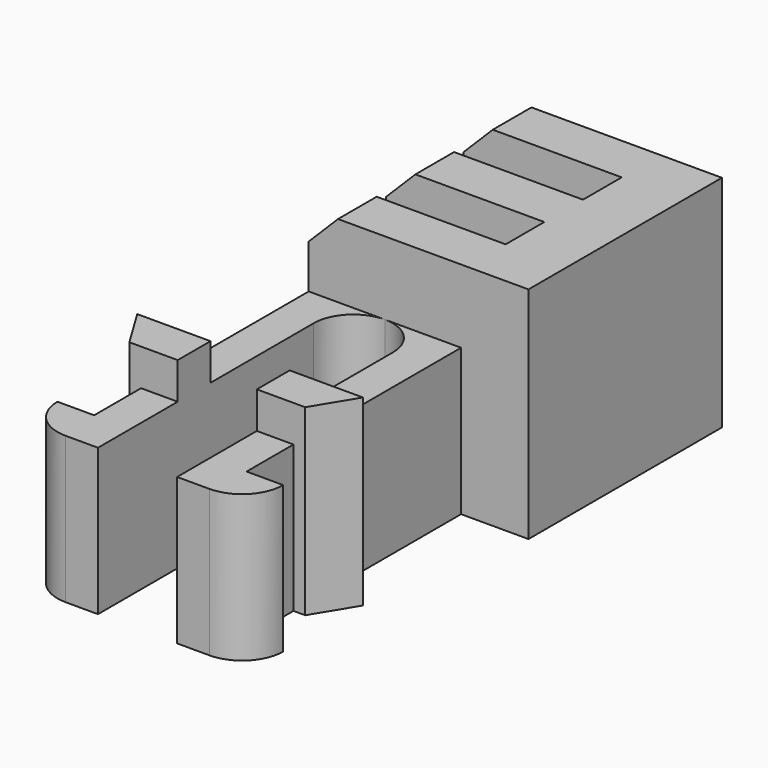
from build123d import *

# Parameters (mm, degrees)
PAD017_DEPTH           = 5
PAD020_DEPTH           = 6.25
SKETCH109_W            = 7.5
SKETCH109_H            = 1.65
PAD078_DEPTH           = 7.5
SKETCH107_W            = 2.1
SKETCH107_H            = 1.65
PAD079_DEPTH           = 7.5
SKETCH106_W            = 7.5
SKETCH106_H            = 1.65
PAD080_DEPTH           = 4.6
SKETCH108_W            = 7.5
SKETCH108_H            = 1.65
PAD081_DEPTH           = 7.5
LINEARPATTERN025_COUNT = 2
LINEARPATTERN025_PITCH = 3.3
CHAMFER015_SIZE        = 1


with BuildPart() as obj1:
    # Sketch034 → Pad017 (new body)
    with BuildSketch(Plane.XY):
        with BuildLine():
            Line((-1.35, -1.8), (-1.35, 6))
            ThreePointArc((0, 7.35), (-0.954594, 6.954594), (-1.35, 6))
            Line((0, 9), (0, 7.35))
            Line((-2.6, 9), (0, 9))
            Line((-2.6, -1.8), (-2.6, 9))
            Line((-3.85, -1.8), (-2.6, -1.8))
            ThreePointArc((-3.85, -1.8), (-3.439949, -2.789949), (-2.45, -3.2))
            Line((-1.35, -3.2), (-2.45, -3.2))
            Line((-1.35, -1.8), (-1.35, -3.2))
        make_face()
    extrude(amount=PAD017_DEPTH)

    # Sketch037 → Pad020 (join)
    with BuildSketch(Plane.XY):
        Polygon((-1.35, 0.2), (-1.35, 1.6), (-2.6, 1.6), (-3.85, 1.6), (-3, 0.2), (-2.6, 0.2), align=None)
    extrude(amount=PAD020_DEPTH)


with BuildPart() as obj2:
    # Mirror001: instance of _obj1
    add(obj1.part.mirror(Plane(origin=(0, 0, 0), x_dir=(0, 1, 0), z_dir=(-1, 0, 0))))


with BuildPart() as body041:
    # Fusion001 base: copy of _obj1
    add(obj1.part)

    # Fusion001: union _obj2)
    add(obj2.part)

    # Sketch109 → Pad078 (new body)
    with BuildSketch(Plane.XY):
        with Locations((1.15, 8.175)):
            Rectangle(SKETCH109_W, SKETCH109_H)
    extrude(amount=PAD078_DEPTH)

    # Sketch107 → Pad079 (join)
    with BuildSketch(Plane.XY):
        with Locations((3.85, 9.825)):
            Rectangle(SKETCH107_W, SKETCH107_H)
    pad079 = extrude(amount=PAD079_DEPTH)

    # Sketch106 → Pad080 (join)
    with BuildSketch(Plane.XY):
        with Locations((1.15, 9.825)):
            Rectangle(SKETCH106_W, SKETCH106_H)
    pad080 = extrude(amount=PAD080_DEPTH)

    # Sketch108 → Pad081 (join)
    with BuildSketch(Plane.XY):
        with Locations((1.15, 11.475)):
            Rectangle(SKETCH108_W, SKETCH108_H)
    pad081 = extrude(amount=PAD081_DEPTH)

    # LinearPattern025: Pad081, Pad080, Pad079 ×2
    with Locations(*[(0, i * LINEARPATTERN025_PITCH, 0) for i in range(1, LINEARPATTERN025_COUNT)]):
        add(pad081)
        add(pad080)
        add(pad079)

    # Chamfer015
    chamfer015_edges = [body041.edges().sort_by_distance(p)[0] for p in [
        (-2.6, 14.775, 7.5),
        (-2.6, 11.475, 7.5),
        (-2.6, 8.175, 7.5),
    ]]
    chamfer(chamfer015_edges, length=CHAMFER015_SIZE)


solid = body041.part
